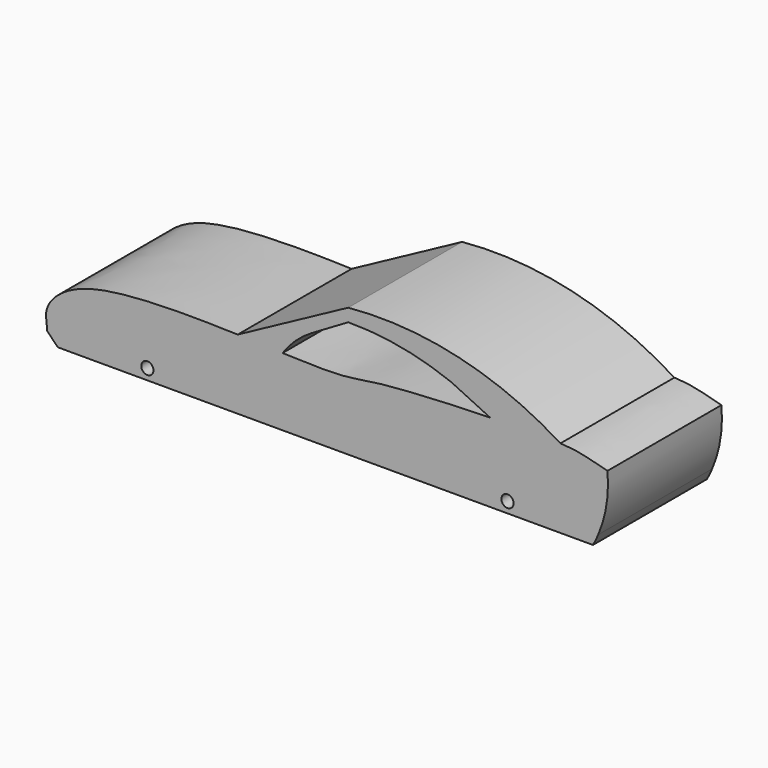
from build123d import *

# Parameters (mm, degrees)
F0_R     = 3
F1_DEPTH = 70


with BuildPart() as f1:
    # F0 (on Front) → F1 (new body)
    with BuildSketch(Plane.XZ):
        with BuildLine():
            Line((-111.5, 0), (-65.5, 0))
            Line((-65.5, 0), (65.5, 0))
            Line((65.5, 0), (111.5, 0))
            Line((111.5, 0), (130.5, 0))
            ThreePointArc((130.5, 0), (131.8468448465, 2.6171085291), (133.0645310662, 5.2967518568))
            ThreePointArc((133.0645310662, 5.2967518568), (137.1503404683, 19.5633158944), (137.6323364973, 34.3955904245))
            add(Edge.make_bspline(
                [(114.4997701049, 38.760419935), (124.1219228185, 38.3494152284), (125.8567408625, 37.3358803896), (137.6323364973, 34.3955904245)],
                knots=[0.8740312085, 0.8740312085, 0.8740312085, 0.8740312085, 1, 1, 1, 1], degree=3))
            add(Edge.make_bspline(
                [(79.9506717595, 38.6835931743), (93.8518742864, 39.0314730271), (106.7403745376, 39.0918580438), (114.4997701049, 38.760419935)],
                knots=[0.7724487755, 0.7724487755, 0.7724487755, 0.7724487755, 0.8740312085, 0.8740312085, 0.8740312085, 0.8740312085], degree=3))
            add(Edge.make_bspline(
                [(-22.0270791966, 33.4487550395), (-13.3076197718, 33.1256909406), (10.5878315252, 32.3576068296), (18.9262232464, 36.1642627718), (60.6467167467, 38.2005085624), (79.9506717595, 38.6835931743)],
                knots=[0.4319986084, 0.4319986084, 0.4319986084, 0.4319986084, 0.4955864164, 0.6313859638, 0.7724487755, 0.7724487755, 0.7724487755, 0.7724487755], degree=3))
            add(Edge.make_bspline(
                [(-44.1169762461, 34.242061633), (-36.3474696979, 34.0022425737), (-28.8507947828, 33.7015800621), (-22.0270791966, 33.4487550395)],
                knots=[0.3822357624, 0.3822357624, 0.3822357624, 0.3822357624, 0.4319986084, 0.4319986084, 0.4319986084, 0.4319986084], degree=3))
            add(Edge.make_bspline(
                [(-137.6901865005, 5.2967518568), (-138.1361705468, 10.5366267583), (-139.7469723452, 15.8994790424), (-122.3906804514, 35.2619318066), (-70.1488325634, 35.045579238), (-44.1169762461, 34.242061633)],
                knots=[0, 0, 0, 0, 0.0828561207, 0.2155045488, 0.3822357624, 0.3822357624, 0.3822357624, 0.3822357624], degree=3))
            Line((-137.6901865005, 5.2967518568), (-132.5, 0))
            Line((-132.5, 0), (-111.5, 0))
        make_face()
        with Locations((-88.5, 5.2967518568)):
            Circle(F0_R, mode=Mode.SUBTRACT)
        with Locations((88.5, 5.2967518568)):
            Circle(F0_R, mode=Mode.SUBTRACT)
        with BuildLine():
            Line((10.2321720927, 63.5675959729), (-44.1169762461, 34.242061633))
            add(Edge.make_bspline(
                [(-44.1169762461, 34.242061633), (-36.3474696979, 34.0022425737), (-28.8507947828, 33.7015800621), (-22.0270791966, 33.4487550395)],
                knots=[0.3822357624, 0.3822357624, 0.3822357624, 0.3822357624, 0.4319986084, 0.4319986084, 0.4319986084, 0.4319986084], degree=3))
            ThreePointArc((-22.0270791966, 33.4487550395), (-15.6242101117, 40.8638805308), (-7.76393155, 46.7116869146))
            Line((-7.76393155, 46.7116869146), (10.2321720927, 57.2603466742))
            ThreePointArc((10.2321720927, 57.2603466742), (35.9182812309, 54.9632721639), (60.7178164546, 47.8896728921))
            Line((60.7178164546, 47.8896728921), (79.9506717595, 38.6835931743))
            add(Edge.make_bspline(
                [(79.9506717595, 38.6835931743), (93.8518742864, 39.0314730271), (106.7403745376, 39.0918580438), (114.4997701049, 38.760419935)],
                knots=[0.7724487755, 0.7724487755, 0.7724487755, 0.7724487755, 0.8740312085, 0.8740312085, 0.8740312085, 0.8740312085], degree=3))
            ThreePointArc((114.4997701049, 38.760419935), (64.4092764451, 59.7522704848), (10.2321720927, 63.5675959729))
        make_face()
    extrude(amount=F1_DEPTH)


solid = f1.part
